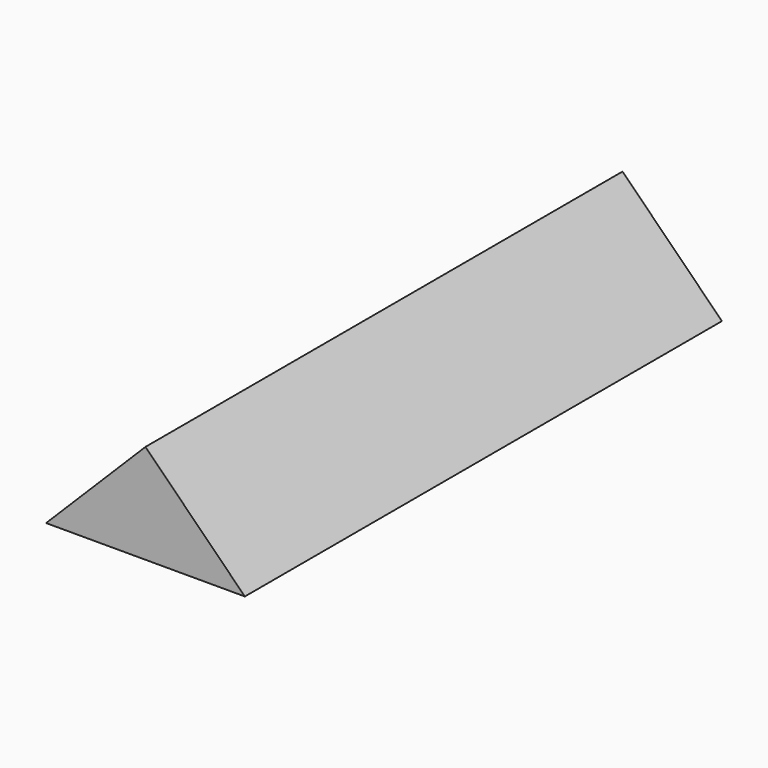
from build123d import *

# Parameters (mm, degrees)
EXTRUDE_DEPTH    = 90
EXTRUDE001_DEPTH = 90


with BuildPart() as extrude_body:
    # Sketch → Extrude (new body)
    with BuildSketch(Plane.XZ):
        Polygon((-15, 0), (0, 15), (15, 0), align=None)
    extrude(amount=EXTRUDE_DEPTH)


with BuildPart() as extrude001:
    # Sketch → Extrude001 (new body)
    with BuildSketch(Plane.XZ):
        Polygon((-15, 0), (0, 15), (15, 0), align=None)
    extrude(amount=EXTRUDE001_DEPTH)


solid = Compound([extrude_body.part, extrude001.part])
